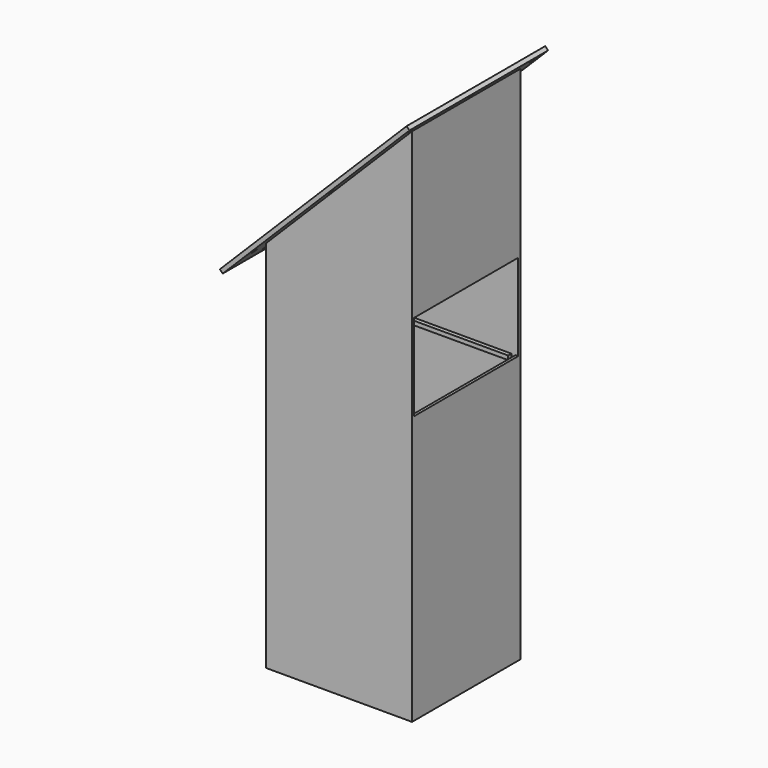
from build123d import *

# Parameters (mm, degrees)
F0_W      = 171.45
F0_H      = 158.75
F0_W_2    = 165.1
F0_H_2    = 152.4
F1_DEPTH  = 609.6
F3_DEPTH  = 158.751
F4_W      = 203.2
F4_H      = 284.28666
F4_R      = 3.175
F4_W_2    = 152.4
F4_H_2    = 233.48666
F4_H_3    = 25.4
F5_DEPTH  = 4.7625
F6_W      = 152.4
F6_H      = 101.6
F7_DEPTH  = 25.4
F8_W      = 160.3375
F8_H      = 4.7625
F9_DEPTH  = 4.7625
F10_W     = 160.3375
F10_H     = 4.7625
F11_DEPTH = 4.7625


with BuildPart() as f1:
    # F0 (on Top) → F1 (new body)
    with BuildSketch(Plane.XY):
        Rectangle(F0_W, F0_H)
        Rectangle(F0_W_2, F0_H_2, mode=Mode.SUBTRACT)
    extrude(amount=F1_DEPTH)

    # F2 (on face) → F3 (cut, through all)
    with BuildSketch(Plane.XZ.offset(79.375)):
        Polygon((-85.725, 438.15), (85.725, 609.6), (-85.725, 609.6), align=None)
    extrude(amount=-F3_DEPTH, mode=Mode.SUBTRACT)

    # F4 (on face) → F5 (join)
    with BuildSketch(Plane(origin=(-261.9375, 0, 261.9375), x_dir=(0, -1, 0), z_dir=(-0.707107, 0, 0.707107))):
        with Locations((0, 370.435565)):
            Rectangle(F4_W, F4_H)
        with Locations((-88.9, 240.992235)):
            Circle(F4_R, mode=Mode.SUBTRACT)
        with Locations((0, 240.992235)):
            Circle(F4_R, mode=Mode.SUBTRACT)
        with Locations((88.9, 240.992235)):
            Circle(F4_R, mode=Mode.SUBTRACT)
        with Locations((-88.9, 370.435565)):
            Circle(F4_R, mode=Mode.SUBTRACT)
        with Locations((0, 370.435565)):
            Rectangle(F4_W_2, F4_H_2, mode=Mode.SUBTRACT)
        with Locations((-88.9, 499.878895)):
            Circle(F4_R, mode=Mode.SUBTRACT)
        with Locations((0, 499.878895)):
            Circle(F4_R, mode=Mode.SUBTRACT)
        with Locations((88.9, 368.56214)):
            Circle(F4_R, mode=Mode.SUBTRACT)
        with Locations((88.9, 499.878895)):
            Circle(F4_R, mode=Mode.SUBTRACT)
        with Locations((0, 215.592235)):
            Rectangle(F4_W, F4_H_3)
        with Locations((-50.8, 215.592235)):
            Circle(F4_R, mode=Mode.SUBTRACT)
        with Locations((50.8, 215.592235)):
            Circle(F4_R, mode=Mode.SUBTRACT)
    extrude(amount=F5_DEPTH)

    # F6 (on face) → F7 (cut)
    with BuildSketch(Plane.YZ.offset(85.725)):
        with Locations((0, 365.125)):
            Rectangle(F6_W, F6_H)
    extrude(amount=-F7_DEPTH, mode=Mode.SUBTRACT)

    # F8 (on face) → F9 (join)
    with BuildSketch(Plane(origin=(0, -76.2, 0), x_dir=(-1, 0, 0), z_dir=(0, 1, 0))):
        with Locations((2.38125, 311.94375)):
            Rectangle(F8_W, F8_H)
    extrude(amount=F9_DEPTH)

    # F10 (on face) → F11 (join)
    with BuildSketch(Plane.XZ.offset(-76.2)):
        with Locations((-2.38125, 311.94375)):
            Rectangle(F10_W, F10_H)
    extrude(amount=F11_DEPTH)


solid = f1.part
